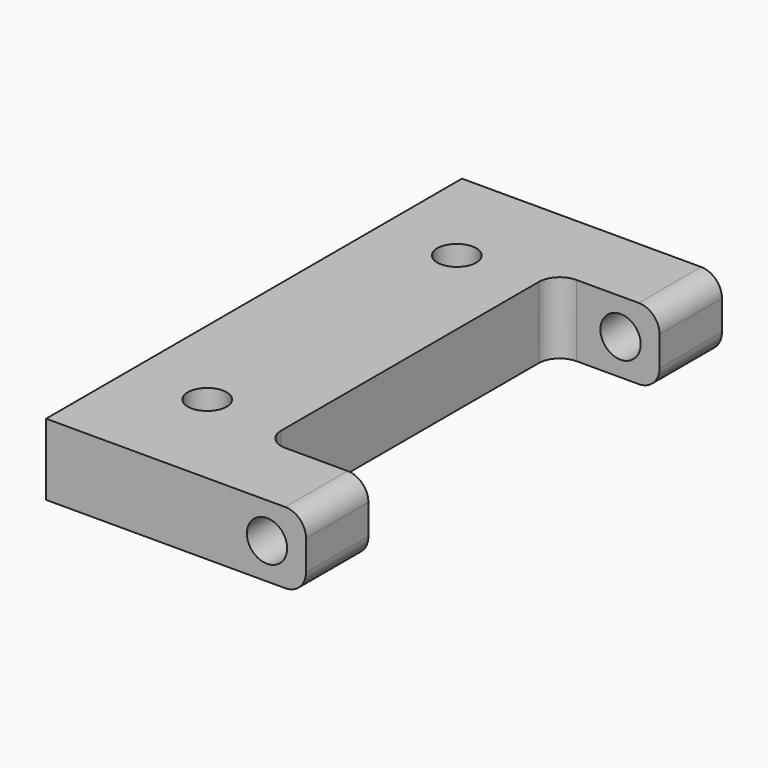
from build123d import *

# Parameters (mm, degrees)
F1_DEPTH = 17.4625
F3_D     = 9.8425
F4_R     = 5.08
F6_D     = 9.525
F7_R     = 5.08


with BuildPart() as f1:
    # F0 (on Top) → F1 (new body)
    with BuildSketch(Plane.XY):
        Polygon((-31.75, -63.5), (31.75, -63.5), (31.75, -44.45), (6.35, -44.45), (6.35, 44.45), (31.75, 44.45), (31.75, 63.5), (-31.75, 63.5), align=None)
    extrude(amount=F1_DEPTH)

    # F3 (through all)
    with Locations(Plane(origin=(0, 63.5, 0), x_dir=(-1, 0, 0), z_dir=(0, 1, 0))):
        with Locations((-22.225, 8.73125)):
            Hole(F3_D / 2)

    # F4
    f4_edges = [f1.edges().sort_by_distance(p)[0] for p in [
        (6.35, -44.45, 8.73125),
        (6.35, 44.45, 8.73125),
    ]]
    fillet(f4_edges, radius=F4_R)

    # F6 (through all)
    with Locations(Plane(origin=(0, 0, 0), x_dir=(1, 0, 0), z_dir=(0, 0, -1))):
        with Locations((-12.7, 38.1), (-12.7, -38.1)):
            Hole(F6_D / 2)

    # F7
    f7_edges = [f1.edges().sort_by_distance(p)[0] for p in [
        (31.75, -53.975, 17.4625),
        (31.75, -53.975, 0),
        (31.75, 53.975, 17.4625),
        (31.75, 53.975, 0),
    ]]
    fillet(f7_edges, radius=F7_R)


solid = f1.part
